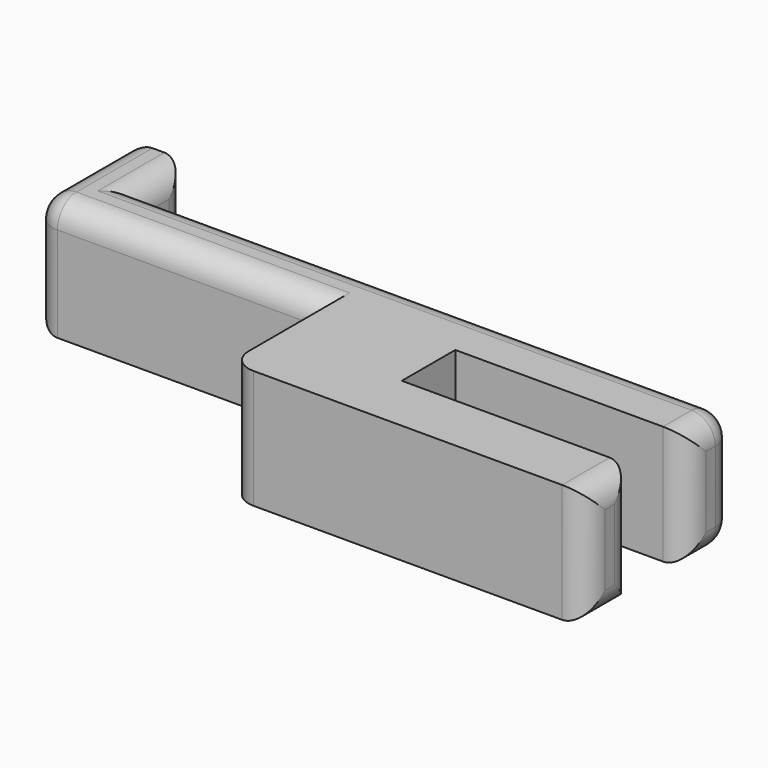
from build123d import *

# Parameters (mm, degrees)
F1_DEPTH = 25.4
F2_R     = 5.08


with BuildPart() as f1:
    # F0 (on Top) → F1 (new body)
    with BuildSketch(Plane.XY):
        Polygon((49.520503, 0), (0, 0), (0, 14.2875), (49.520503, 14.2875), (49.520503, 26.9875), (-77.479497, 26.9875), (-77.479497, 39.6875), (-90.179497, 39.6875), (-90.179497, 14.2875), (-26.679497, 14.2875), (-26.679497, -12.7), (49.520503, -12.7), align=None)
    extrude(amount=F1_DEPTH)

    # F2
    f2_edges = [f1.edges().sort_by_distance(p)[0] for p in [
        (49.520503, 14.2875, 12.7),
        (49.520503, 26.9875, 12.7),
        (49.520503, 20.6375, 0),
        (49.520503, 20.6375, 25.4),
        (49.520503, -12.7, 12.7),
        (49.520503, 0, 12.7),
        (49.520503, -6.35, 0),
        (49.520503, -6.35, 25.4),
        (-13.979497, 26.9875, 25.4),
        (-58.429497, 14.2875, 25.4),
        (-77.479497, 33.3375, 25.4),
        (-77.479497, 33.3375, 0),
        (-13.979497, 26.9875, 0),
        (-77.479497, 39.6875, 12.7),
        (-90.179497, 39.6875, 12.7),
        (-90.179497, 14.2875, 12.7),
        (-90.179497, 26.9875, 0),
        (-90.179497, 26.9875, 25.4),
        (-26.679497, -12.7, 12.7),
    ]]
    fillet(f2_edges, radius=F2_R)


solid = f1.part
